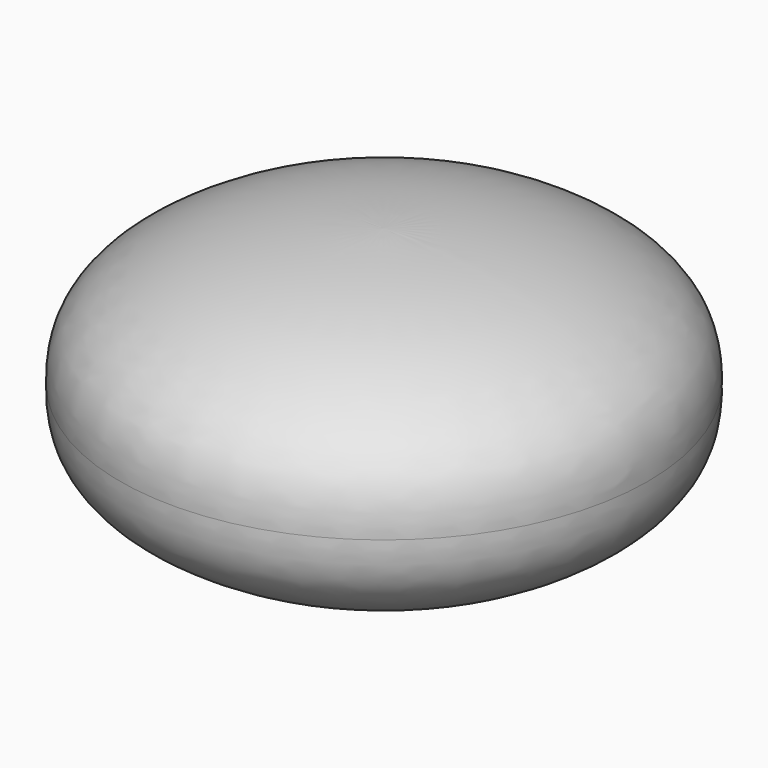
from build123d import *


with BuildPart() as f1:
    # F0 (on Front) → F1 (revolve)
    with BuildSketch(Plane.XZ):
        with BuildLine():
            add(Edge.make_bspline(
                [(0, 177.8), (146.7944541927, 175.6007092275), (284.8040516867, 127.4243632634), (344.6993970118, 54.7669356568), (342.9, 0)],
                knots=[0, 0, 0, 0, 0.6081428083, 1, 1, 1, 1], degree=3))
            Line((0, 177.8), (0, -177.8))
            add(Edge.make_bspline(
                [(0, -177.8), (146.7944541927, -175.6007092275), (284.8040516867, -127.4243632634), (344.6993970118, -54.7669356568), (342.9, 0)],
                knots=[0, 0, 0, 0, 0.6081428083, 1, 1, 1, 1], degree=3))
        make_face()
    revolve(axis=Axis((0, 0, 0), (0, 0, -1)))


solid = f1.part
